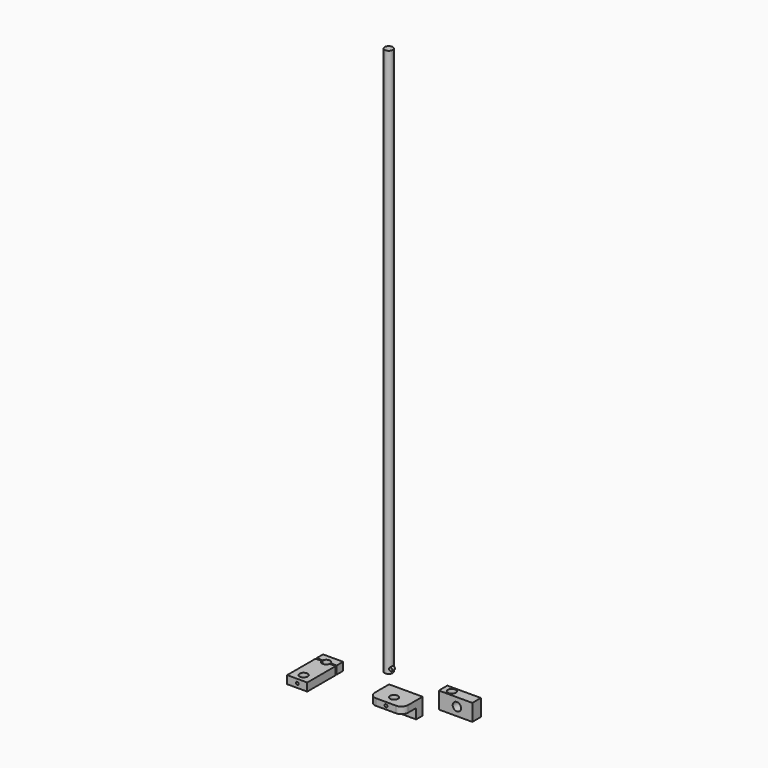
from build123d import *

# Parameters (mm, degrees)
F0_W      = 50
F0_H      = 25
F1_DEPTH  = 6
F2_W      = 50
F2_H      = 10
F3_DEPTH  = 25
F4_R      = 6
F5_DEPTH  = 25.001
F6_R      = 10
F7_W      = 30
F7_H      = 12
F8_DEPTH  = 53
F9_R      = 6
F10_DEPTH = 25
F11_W     = 30
F11_H     = 12
F12_DEPTH = 12
F13_R     = 6
F14_DEPTH = 27.001
F15_R     = 6
F16_DEPTH = 27.001
F17_R     = 6
F18_DEPTH = 819
F19_W     = 50
F19_H     = 16
F19_R     = 6
F20_DEPTH = 12.5
F21_R     = 6.25
F22_DEPTH = 25
F24_D     = 4.2
F24_DEPTH = 10
F24_TIP   = 1.2618073
F26_D     = 5.5
F26_DEPTH = 12
F26_TIP   = 1.6523667023
F28_D     = 4.2
F28_DEPTH = 10
F28_TIP   = 1.2618073
F30_D     = 4.2
F30_DEPTH = 5
F30_TIP   = 1.2618073
F32_D     = 4.2
F32_DEPTH = 5
F32_TIP   = 1.2618073
F33_R     = 2.5
F34_DEPTH = 5


with BuildPart() as f1:
    # F0 (on Front) → F1 (new body, symmetric)
    with BuildSketch(Plane.XZ):
        Rectangle(F0_W, F0_H)
    extrude(amount=F1_DEPTH, both=True)

    # F2 (on face) → F3 (join)
    with BuildSketch(Plane.XZ.offset(6)):
        with Locations((0, 7.5)):
            Rectangle(F2_W, F2_H)
    extrude(amount=F3_DEPTH)

    # F4 (on face) → F5 (cut, through all)
    with BuildSketch(Plane.XY.offset(12.5)):
        with Locations((0, -16)):
            Circle(F4_R)
    extrude(amount=-F5_DEPTH, mode=Mode.SUBTRACT)

    # F6
    f6_edges = [f1.edges().sort_by_distance(p)[0] for p in [
        (-25, -31, 7.5),
        (25, -31, 7.5),
    ]]
    fillet(f6_edges, radius=F6_R)

    # F24
    with Locations(Plane.XZ.offset(31)):
        with Locations((0, 7.5)):
            Hole(F24_D / 2, depth=F24_DEPTH)
            with Locations((0, 0, -(F24_DEPTH + F24_TIP / 2))):  # 118° drill point
                Cone(0, F24_D / 2, F24_TIP, mode=Mode.SUBTRACT)


with BuildPart() as f8:
    # F7 (on Front) → F8 (new body)
    with BuildSketch(Plane.XZ):
        with Locations((-115, 8.5)):
            Rectangle(F7_W, F7_H)
    extrude(amount=F8_DEPTH)

    # F9 (on face) → F10 (cut)
    with BuildSketch(Plane.XY.offset(14.5)):
        with Locations((-115, 1)):
            Circle(F9_R)
    extrude(amount=-F10_DEPTH, mode=Mode.SUBTRACT)

    # F15 (on face) → F16 (cut, through all)
    with BuildSketch(Plane.XY.offset(14.5)):
        with Locations((-115, -41)):
            Circle(F15_R)
    extrude(amount=-F16_DEPTH, mode=Mode.SUBTRACT)

    # F28
    with Locations(Plane(origin=(0, 0, 0), x_dir=(-1, 0, 0), z_dir=(0, 1, 0))):
        with Locations((104.5, 8.5), (125.5, 8.5)):
            Hole(F28_D / 2, depth=F28_DEPTH)
            with Locations((0, 0, -(F28_DEPTH + F28_TIP / 2))):  # 118° drill point
                Cone(0, F28_D / 2, F28_TIP, mode=Mode.SUBTRACT)

    # F30
    with Locations(Plane.XZ.offset(53)):
        with Locations((-115, 8.5)):
            Hole(F30_D / 2, depth=F30_DEPTH)
            with Locations((0, 0, -(F30_DEPTH + F30_TIP / 2))):  # 118° drill point
                Cone(0, F30_D / 2, F30_TIP, mode=Mode.SUBTRACT)


with BuildPart() as f12:
    # F11 (on face) → F12 (new body)
    with BuildSketch(Plane.XY.offset(14.5)):
        with Locations((-115, 8)):
            Rectangle(F11_W, F11_H)
    extrude(amount=-F12_DEPTH)

    # F13 (on face) → F14 (cut, through all)
    with BuildSketch(Plane.XY.offset(14.5)):
        with Locations((-115, 1)):
            Circle(F13_R)
    extrude(amount=-F14_DEPTH, mode=Mode.SUBTRACT)

    # F26
    with Locations(Plane(origin=(0, 14, 0), x_dir=(-1, 0, 0), z_dir=(0, 1, 0))):
        with Locations((104.5, 8.5), (125.5, 8.5)):
            Hole(F26_D / 2, depth=F26_DEPTH)
            with Locations((0, 0, -(F26_DEPTH + F26_TIP / 2))):  # 118° drill point
                Cone(0, F26_D / 2, F26_TIP, mode=Mode.SUBTRACT)


with BuildPart() as f18:
    # F17 (on Top) → F18 (new body)
    with BuildSketch(Plane.XY):
        with Locations((-60.4759976268, 49.5821088552)):
            Circle(F17_R)
    extrude(amount=F18_DEPTH)


with BuildPart() as f20:
    # F19 (on Top) → F20 (new body, symmetric)
    with BuildSketch(Plane.XY):
        with Locations((55, 38)):
            Rectangle(F19_W, F19_H)
        with Locations((43, 38)):
            Circle(F19_R, mode=Mode.SUBTRACT)
    extrude(amount=F20_DEPTH, both=True)

    # F21 (on face) → F22 (cut)
    with BuildSketch(Plane.XZ.offset(-30)):
        with Locations((57, 0)):
            Circle(F21_R)
    extrude(amount=-F22_DEPTH, mode=Mode.SUBTRACT)

    # F32
    with Locations(Plane(origin=(30, 0, 0), x_dir=(0, -1, 0), z_dir=(-1, 0, 0))):
        with Locations((-38, 0)):
            Hole(F32_D / 2, depth=F32_DEPTH)
            with Locations((0, 0, -(F32_DEPTH + F32_TIP / 2))):  # 118° drill point
                Cone(0, F32_D / 2, F32_TIP, mode=Mode.SUBTRACT)


with BuildPart() as f34:
    # F33 (on Front) → F34 (new body)
    with BuildSketch(Plane.XZ):
        with Locations((-13.8636240736, 40.1147268713)):
            Circle(F33_R)
    extrude(amount=F34_DEPTH)


solid = Compound([f1.part, f8.part, f12.part, f18.part, f20.part, f34.part])
